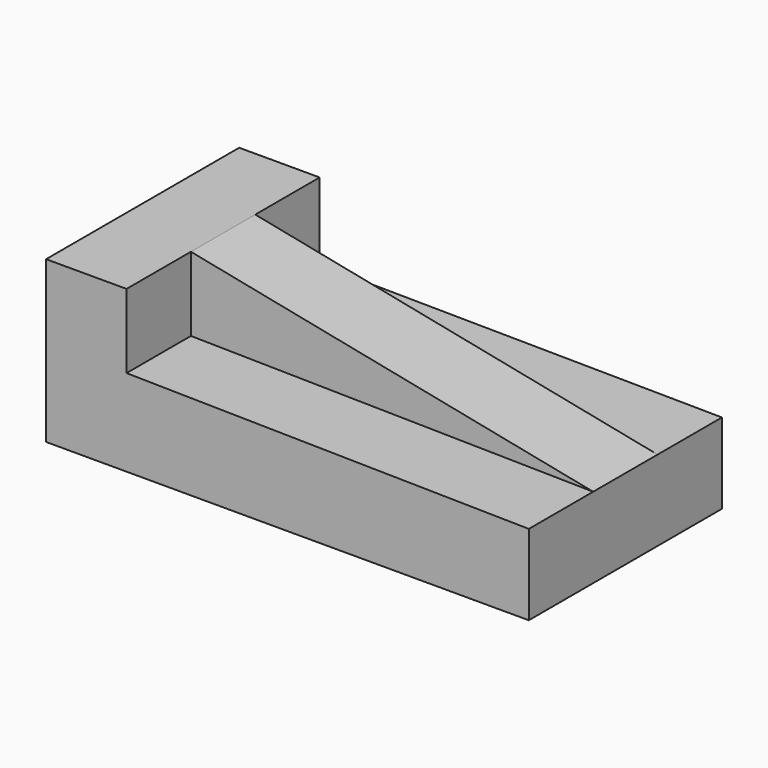
from build123d import *

# Parameters (mm, degrees)
F1_DEPTH = 76.2
F3_DEPTH = 76.2
F5_DEPTH = 25.4
F7_DEPTH = 25.4


with BuildPart() as f1:
    # F0 (on Front) → F1 (new body)
    with BuildSketch(Plane.XZ):
        Polygon((0, 50.8), (0, 0), (152.4, 0), (152.4, 25.4), (25.4, 25.4), (25.4, 50.8), align=None)
    extrude(amount=-F1_DEPTH)

    # F2 (on face) → F3 (join)
    with BuildSketch(Plane.XZ):
        Polygon((152.4, 25.4), (25.4, 50.8), (25.4, 25.4), align=None)
    extrude(amount=-F3_DEPTH)

    # F4 (on face) → F5 (cut)
    with BuildSketch(Plane.XZ):
        Polygon((152.4, 25.4), (25.4, 50.8), (25.4, 27.398381), align=None)
    extrude(amount=-F5_DEPTH, mode=Mode.SUBTRACT)

    # F6 (on face) → F7 (cut)
    with BuildSketch(Plane(origin=(0, 76.2, 0), x_dir=(-1, 0, 0), z_dir=(0, 1, 0))):
        Polygon((-25.4, 26.62628), (-25.4, 50.8), (-152.4, 25.4), align=None)
    extrude(amount=-F7_DEPTH, mode=Mode.SUBTRACT)


solid = f1.part
